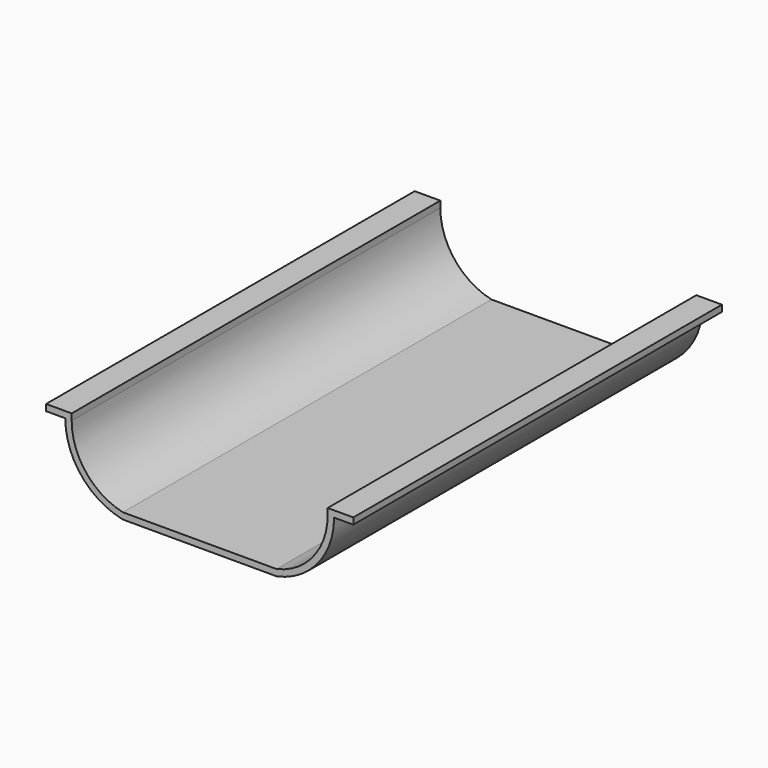
from build123d import *

# Parameters (mm, degrees)
F1_DEPTH = 457.2


with BuildPart() as f1:
    # F0 (on Front) → F1 (new body)
    with BuildSketch(Plane.XZ):
        with BuildLine():
            Line((-72.007763, 0), (-97.407763, 0))
            Line((-97.407763, 0), (-97.407763, -6.35))
            Line((-97.407763, -6.35), (-78.357763, -6.35))
            ThreePointArc((-78.357763, -6.35), (-62.249709, -51.475229), (-21.207763, -76.2))
            Line((-21.207763, -76.2), (131.192237, -76.2))
            ThreePointArc((131.192237, -76.2), (172.234183, -51.475229), (188.342237, -6.35))
            Line((188.342237, -6.35), (207.392237, -6.35))
            Line((207.392237, -6.35), (207.392237, 0))
            Line((207.392237, 0), (181.992237, 0))
            Line((181.992237, 0), (181.992237, -6.35))
            ThreePointArc((181.992237, -6.35), (167.729535, -47.009839), (131.192237, -69.85))
            Line((131.192237, -69.85), (54.992237, -69.85))
            Line((54.992237, -69.85), (-21.207763, -69.85))
            ThreePointArc((-21.207763, -69.85), (-57.745062, -47.009839), (-72.007763, -6.35))
            Line((-72.007763, -6.35), (-72.007763, 0))
        make_face()
    extrude(amount=F1_DEPTH)


solid = f1.part
